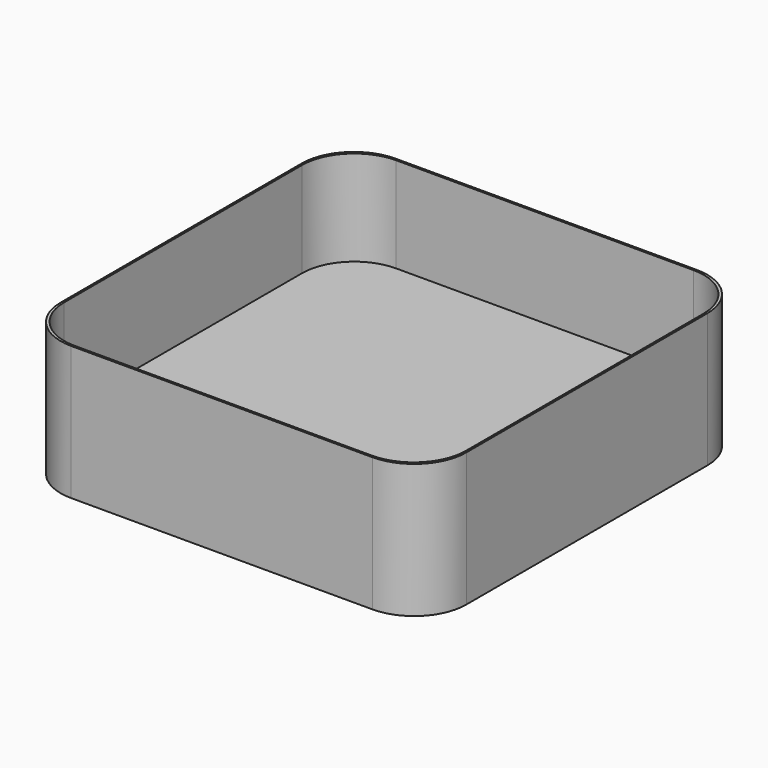
from build123d import *

# Parameters (mm, degrees)
F1_DEPTH = 38.1
F2_DEPTH = 2
F3_DEPTH = 12.7


with BuildPart() as f1:
    # F0 (on Top) → F1 (new body)
    with BuildSketch(Plane.XY):
        with BuildLine():
            Line((-57.138, -76.9493), (-18.130362, -76.9493))
            Line((-18.130362, -76.9493), (57.138, -76.9493))
            ThreePointArc((57.138, -76.9493), (71.1472, -71.1465), (76.95, -57.1373))
            Line((76.95, -57.1373), (76.95, 57.1373))
            ThreePointArc((76.95, 57.1373), (71.1472, 71.1465), (57.138, 76.9493))
            Line((57.138, 76.9493), (-57.138, 76.9493))
            ThreePointArc((-57.138, 76.9493), (-71.1472, 71.1465), (-76.95, 57.1373))
            Line((-76.95, 57.1373), (-76.95, -57.1373))
            ThreePointArc((-76.95, -57.1373), (-71.1472, -71.1465), (-57.138, -76.9493))
        make_face()
        with BuildLine():
            Line((-56.388, 76.2), (56.388, 76.2))
            ThreePointArc((56.388, 76.2), (70.3972, 70.3972), (76.2, 56.388))
            Line((76.2, 56.388), (76.2, -56.388))
            ThreePointArc((76.2, -56.388), (70.3972, -70.3972), (56.388, -76.2))
            Line((56.388, -76.2), (-18.130362, -76.2))
            Line((-18.130362, -76.2), (-56.388, -76.2))
            ThreePointArc((-56.388, -76.2), (-70.3972, -70.3972), (-76.2, -56.388))
            Line((-76.2, -56.388), (-76.2, 56.388))
            ThreePointArc((-76.2, 56.388), (-70.3972, 70.3972), (-56.388, 76.2))
        make_face(mode=Mode.SUBTRACT)
    extrude(amount=F1_DEPTH)

    # F0 (on Top) → F2 (join)
    with BuildSketch(Plane.XY):
        with BuildLine():
            ThreePointArc((76.2, 56.388), (70.3972, 70.3972), (56.388, 76.2))
            Line((56.388, 76.2), (-56.388, 76.2))
            ThreePointArc((-56.388, 76.2), (-70.3972, 70.3972), (-76.2, 56.388))
            Line((-76.2, 56.388), (-76.2, -56.388))
            ThreePointArc((-76.2, -56.388), (-70.3972, -70.3972), (-56.388, -76.2))
            Line((-56.388, -76.2), (-18.130362, -76.2))
            Line((-18.130362, -76.2), (56.388, -76.2))
            ThreePointArc((56.388, -76.2), (70.3972, -70.3972), (76.2, -56.388))
            Line((76.2, -56.388), (76.2, 56.388))
        make_face()
    extrude(amount=F2_DEPTH)

    # F0 (on Top) → F3 (join)
    with BuildSketch(Plane.XY):
        with BuildLine():
            Line((-57.138, -76.9493), (-18.130362, -76.9493))
            Line((-18.130362, -76.9493), (57.138, -76.9493))
            ThreePointArc((57.138, -76.9493), (71.1472, -71.1465), (76.95, -57.1373))
            Line((76.95, -57.1373), (76.95, 57.1373))
            ThreePointArc((76.95, 57.1373), (71.1472, 71.1465), (57.138, 76.9493))
            Line((57.138, 76.9493), (-57.138, 76.9493))
            ThreePointArc((-57.138, 76.9493), (-71.1472, 71.1465), (-76.95, 57.1373))
            Line((-76.95, 57.1373), (-76.95, -57.1373))
            ThreePointArc((-76.95, -57.1373), (-71.1472, -71.1465), (-57.138, -76.9493))
        make_face()
        with BuildLine():
            Line((-56.388, 76.2), (56.388, 76.2))
            ThreePointArc((56.388, 76.2), (70.3972, 70.3972), (76.2, 56.388))
            Line((76.2, 56.388), (76.2, -56.388))
            ThreePointArc((76.2, -56.388), (70.3972, -70.3972), (56.388, -76.2))
            Line((56.388, -76.2), (-18.130362, -76.2))
            Line((-18.130362, -76.2), (-56.388, -76.2))
            ThreePointArc((-56.388, -76.2), (-70.3972, -70.3972), (-76.2, -56.388))
            Line((-76.2, -56.388), (-76.2, 56.388))
            ThreePointArc((-76.2, 56.388), (-70.3972, 70.3972), (-56.388, 76.2))
        make_face(mode=Mode.SUBTRACT)
    extrude(amount=-F3_DEPTH)


solid = f1.part
